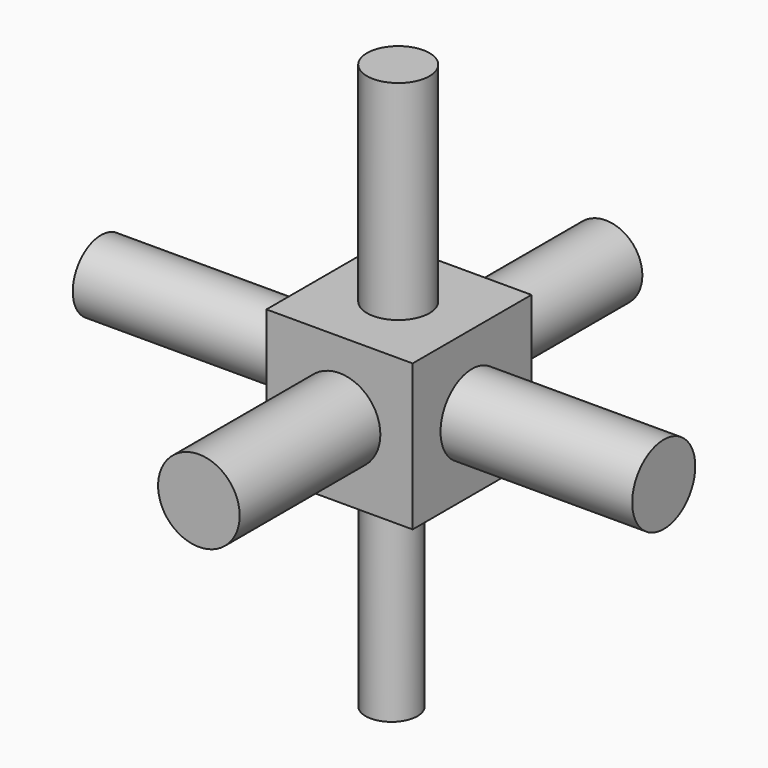
from build123d import *

# Parameters (mm, degrees)
F0_W      = 25
F0_H      = 25
F1_DEPTH  = 25.4
F2_R      = 5.34833
F3_DEPTH  = 60.688041
F5_R      = 4.425329
F6_DEPTH  = 35.64737
F4_R      = 5.771368
F7_DEPTH  = 5.648091
F8_R      = 6.258089
F9_DEPTH  = 32.231893
F10_R     = 6.97949
F11_DEPTH = 30.076189
F12_R     = 6.737557
F13_DEPTH = 32.785647
F14_R     = 6.042728
F15_DEPTH = 38.435884


with BuildPart() as f1:
    # F0 (on Front) → F1 (new body)
    with BuildSketch(Plane.XZ):
        with Locations((12.5, 12.5)):
            Rectangle(F0_W, F0_H)
    extrude(amount=F1_DEPTH)

    # F2 (on Top) → F3 (join)
    with BuildSketch(Plane.XY):
        with Locations((12.327284, -12.637898)):
            Circle(F2_R)
    extrude(amount=F3_DEPTH)

    # F5 (on face) → F6 (join)
    with BuildSketch(Plane(origin=(0, 0, 0), x_dir=(1, 0, 0), z_dir=(0, 0, -1))):
        with Locations((12.036352, 13.710335)):
            Circle(F5_R)
    extrude(amount=F6_DEPTH)

    # F4 (on Top) → F7 (join)
    with BuildSketch(Plane.XY):
        with Locations((11.907944, -12.260992)):
            Circle(F4_R)
    extrude(amount=F7_DEPTH)

    # F8 (on face) → F9 (join)
    with BuildSketch(Plane.XZ):
        with Locations((11.928667, 12.61479)):
            Circle(F8_R)
    extrude(amount=-F9_DEPTH)

    # F10 (on face) → F11 (join)
    with BuildSketch(Plane.XZ.offset(25.4)):
        with Locations((12.5, 12.5)):
            Circle(F10_R)
    extrude(amount=F11_DEPTH)

    # F12 (on face) → F13 (join)
    with BuildSketch(Plane.YZ.offset(25)):
        with Locations((-12.7, 12.28429)):
            Circle(F12_R)
    extrude(amount=F13_DEPTH)

    # F14 (on face) → F15 (join)
    with BuildSketch(Plane(origin=(0, 0, 0), x_dir=(0, -1, 0), z_dir=(-1, 0, 0))):
        with Locations((12.726512, 12.5)):
            Circle(F14_R)
    extrude(amount=F15_DEPTH)


solid = f1.part
